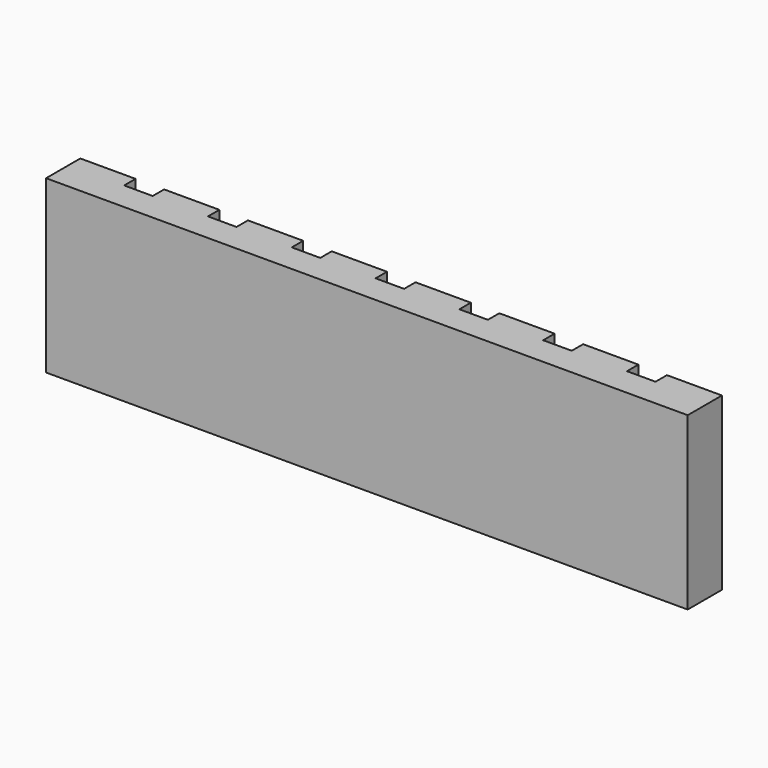
from build123d import *

# Parameters (mm, degrees)
F0_W     = 38.1
F0_H     = 152.4
F1_DEPTH = 285.75
F2_W     = 25.4
F2_H     = 12.7
F3_DEPTH = 152.401


with BuildPart() as f1:
    # F0 (on Right) → F1 (new body, symmetric)
    with BuildSketch(Plane.YZ):
        Rectangle(F0_W, F0_H)
    extrude(amount=F1_DEPTH, both=True)

    # F2 (on face) → F3 (cut, through all)
    with BuildSketch(Plane.XY.offset(76.2)):
        with Locations((-223.80575, 12.7)):
            Rectangle(F2_W, F2_H)
        with Locations((-149.1615, 12.7)):
            Rectangle(F2_W, F2_H)
        with Locations((-74.51725, 12.7)):
            Rectangle(F2_W, F2_H)
        with Locations((0.127, 12.7)):
            Rectangle(F2_W, F2_H)
        with Locations((74.77125, 12.7)):
            Rectangle(F2_W, F2_H)
        with Locations((149.4155, 12.7)):
            Rectangle(F2_W, F2_H)
        with Locations((224.05975, 12.7)):
            Rectangle(F2_W, F2_H)
    extrude(amount=-F3_DEPTH, mode=Mode.SUBTRACT)


solid = f1.part
